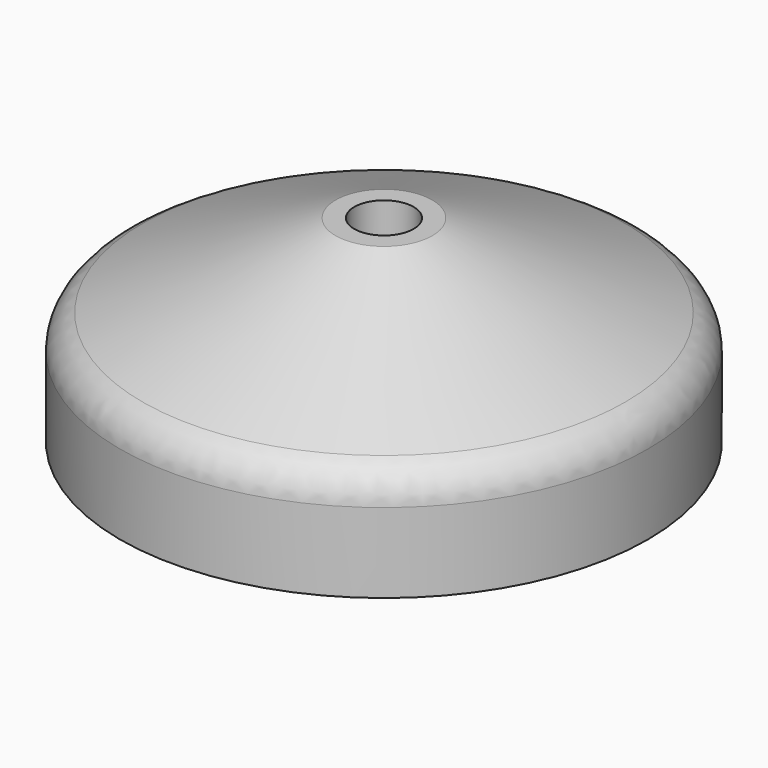
from build123d import *

# Parameters (mm, degrees)
F2_R = 5


with BuildPart() as f1:
    # F0 (on Front) → F1 (revolve)
    with BuildSketch(Plane.XZ):
        Polygon((6.5, 11.527245), (33, 0), (33, -11), (35.5, -11), (35.5, 3), (6.5, 15.527245), (4, 15.527245), (4, -4), (6.5, -4), align=None)
    revolve(axis=Axis((0, 0, 34.618549), (0, 0, 1)))

    # F2
    f2_edges = [f1.edges().sort_by_distance(p)[0] for p in [
        (-35.5, 0, 3),
        (-33, 0, 0),
    ]]
    fillet(f2_edges, radius=F2_R)


solid = f1.part
